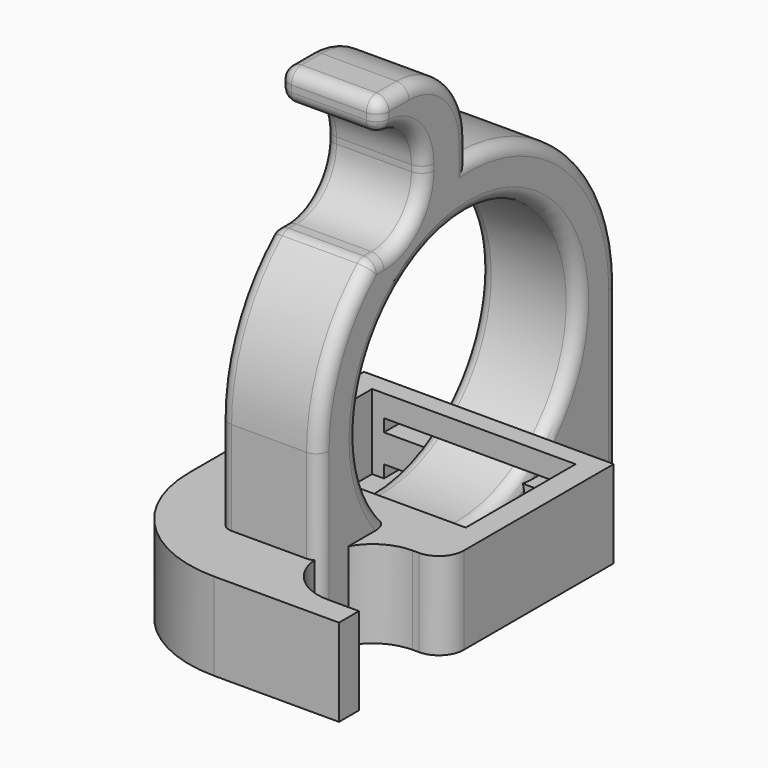
from build123d import *

# Parameters (mm, degrees)
BOX005_W          = 28.8
BOX005_H          = 22
BOX005_DEPTH      = 2
BOX006_W          = 28.8
BOX006_H          = 22
BOX006_DEPTH      = 2
BOX004_W          = 32.6
BOX004_H          = 22
BOX004_DEPTH      = 12
BOX_W             = 20
BOX_H             = 17
BOX_DEPTH         = 20
FILLET_R          = 8
BOX007_W          = 40
BOX007_H          = 55
BOX007_DEPTH      = 14
FILLET001_R       = 20
FILLET002_R       = 4
CYLINDER004_R     = 30
CYLINDER004_DEPTH = 20
BOX014_W          = 20
BOX014_H          = 30
BOX014_DEPTH      = 50
CYLINDER002_R     = 22
CYLINDER002_DEPTH = 20
CYLINDER001_R     = 1.2
CYLINDER001_DEPTH = 15
CYLINDER_R        = 1.2
CYLINDER_DEPTH    = 15
BOX012_W          = 20
BOX012_H          = 12
BOX012_DEPTH      = 10
BOX011_W          = 20
BOX011_H          = 21
BOX011_DEPTH      = 17
FILLET004_R       = 8
CYLINDER003_R     = 30
CYLINDER003_DEPTH = 20
BOX013_W          = 20
BOX013_H          = 20
BOX013_DEPTH      = 30
BOX010_W          = 16
BOX010_H          = 60
BOX010_DEPTH      = 72
FILLET005_R       = 12
FILLET006_R       = 2
FILLET007_R       = 2
FILLET008_R       = 2


with BuildPart() as cube005:
    # Box005 → Box005 (new body)
    with BuildSketch(Plane(origin=(-14.4, 0, 0), x_dir=(1, 0, 0), z_dir=(0, 0, 1))):
        with Locations((14.4, 11)):
            Rectangle(BOX005_W, BOX005_H)
    extrude(amount=BOX005_DEPTH)


with BuildPart() as cube006:
    # Box006 → Box006 (new body)
    with BuildSketch(Plane(origin=(-14.4, 0, 6.5), x_dir=(1, 0, 0), z_dir=(0, 0, 1))):
        with Locations((14.4, 11)):
            Rectangle(BOX006_W, BOX006_H)
    extrude(amount=BOX006_DEPTH)


with BuildPart() as hollows:
    # Box004 → Box004 (new body)
    with BuildSketch(Plane(origin=(-16.3, -11, 0), x_dir=(1, 0, 0), z_dir=(0, 0, 1))):
        with Locations((16.3, 11)):
            Rectangle(BOX004_W, BOX004_H)
    extrude(amount=BOX004_DEPTH)

    # Fusion: union Cube005, Cube006
    add(cube005.part)
    add(cube006.part)


with BuildPart() as fusion001:
    # Box → Box (new body)
    with BuildSketch(Plane(origin=(7, -37, -3), x_dir=(1, 0, 0), z_dir=(0, 0, 1))):
        with Locations((10, 8.5)):
            Rectangle(BOX_W, BOX_H)
    extrude(amount=BOX_DEPTH)

    # Fillet
    fillet_edges = [fusion001.edges().sort_by_distance(p)[0] for p in [
        (7, -37, 7),
        (7, -20, 7),
    ]]
    fillet(fillet_edges, radius=FILLET_R)

    # Fusion001: union Hollows
    add(hollows.part)


with BuildPart() as obj1:
    # Box007 → Box007 (new body)
    with BuildSketch(Plane(origin=(-20, -41, -2), x_dir=(1, 0, 0), z_dir=(0, 0, 1))):
        with Locations((20, 27.5)):
            Rectangle(BOX007_W, BOX007_H)
    extrude(amount=BOX007_DEPTH)

    # Fillet001
    fillet001_edges = [obj1.edges().sort_by_distance(p)[0] for p in [
        (-20, -41, 5),
    ]]
    fillet(fillet001_edges, radius=FILLET001_R)

    # Cut: cut Fusion001
    add(fusion001.part, mode=Mode.SUBTRACT)

    # Fillet002
    fillet002_edges = [obj1.edges().sort_by_distance(p)[0] for p in [
        (20, -20, 5),
    ]]
    fillet(fillet002_edges, radius=FILLET002_R)


with BuildPart() as cylinder004:
    # Cylinder004 → Cylinder004 (new body)
    with BuildSketch(Plane(origin=(-10, 0, 27), x_dir=(0, 0, -1), z_dir=(1, 0, 0))):
        Circle(CYLINDER004_R)
    extrude(amount=CYLINDER004_DEPTH)


with BuildPart() as cut002:
    # Box014 → Box014 (new body)
    with BuildSketch(Plane(origin=(-10, 0, 27), x_dir=(1, 0, 0), z_dir=(0, 0, 1))):
        with Locations((10, 15)):
            Rectangle(BOX014_W, BOX014_H)
    extrude(amount=BOX014_DEPTH)

    # Cut002: cut Cylinder004
    add(cylinder004.part, mode=Mode.SUBTRACT)


with BuildPart() as cylinder:
    # Cylinder002 → Cylinder002 (new body)
    with BuildSketch(Plane(origin=(-10, 0, 27), x_dir=(0, 0, -1), z_dir=(1, 0, 0))):
        Circle(CYLINDER002_R)
    extrude(amount=CYLINDER002_DEPTH)


with BuildPart() as screw002:
    # Cylinder001 → Cylinder001 (new body)
    with BuildSketch(Plane(origin=(0, -20.4, 0), x_dir=(1, 0, 0), z_dir=(0, 0, 1))):
        Circle(CYLINDER001_R)
    extrude(amount=CYLINDER001_DEPTH)


with BuildPart() as screw001:
    # Cylinder → Cylinder (new body)
    with BuildSketch(Plane(origin=(0, 20.4, 0), x_dir=(1, 0, 0), z_dir=(0, 0, 1))):
        Circle(CYLINDER_R)
    extrude(amount=CYLINDER_DEPTH)


with BuildPart() as cube009:
    # Box012 → Box012 (new body)
    with BuildSketch(Plane(origin=(-10, -30, 63), x_dir=(1, 0, 0), z_dir=(0, 0, 1))):
        with Locations((10, 6)):
            Rectangle(BOX012_W, BOX012_H)
    extrude(amount=BOX012_DEPTH)


with BuildPart() as fillet004:
    # Box011 → Box011 (new body)
    with BuildSketch(Plane(origin=(-10, -30, 50), x_dir=(1, 0, 0), z_dir=(0, 0, 1))):
        with Locations((10, 10.5)):
            Rectangle(BOX011_W, BOX011_H)
    extrude(amount=BOX011_DEPTH)

    # Fillet004
    fillet004_edges = [fillet004.edges().sort_by_distance(p)[0] for p in [
        (0, -9, 50),
        (0, -9, 67),
    ]]
    fillet(fillet004_edges, radius=FILLET004_R)


with BuildPart() as cylinder003:
    # Cylinder003 → Cylinder003 (new body)
    with BuildSketch(Plane(origin=(-10, 0, 27), x_dir=(0, 0, -1), z_dir=(1, 0, 0))):
        Circle(CYLINDER003_R)
    extrude(amount=CYLINDER003_DEPTH)


with BuildPart() as hollows001:
    # Box013 → Box013 (new body)
    with BuildSketch(Plane(origin=(-10, -35, 27), x_dir=(1, 0, 0), z_dir=(0, 0, 1))):
        with Locations((10, 10)):
            Rectangle(BOX013_W, BOX013_H)
    extrude(amount=BOX013_DEPTH)

    # Cut001: cut Cylinder003
    add(cylinder003.part, mode=Mode.SUBTRACT)

    # Fusion002: union Cut002, Cylinder, Screw002, Screw001, Cube009, Fillet004
    add(cut002.part)
    add(cylinder.part)
    add(screw002.part)
    add(screw001.part)
    add(cube009.part)
    add(fillet004.part)


with BuildPart() as obj2:
    # Box010 → Box010 (new body)
    with BuildSketch(Plane(origin=(-8, -30, 0), x_dir=(1, 0, 0), z_dir=(0, 0, 1))):
        with Locations((8, 30)):
            Rectangle(BOX010_W, BOX010_H)
    extrude(amount=BOX010_DEPTH)

    # Cut003: cut Hollows001
    add(hollows001.part, mode=Mode.SUBTRACT)

    # Fillet005
    fillet005_edges = [obj2.edges().sort_by_distance(p)[0] for p in [
        (0, 0, 72),
    ]]
    fillet(fillet005_edges, radius=FILLET005_R)

    # Fillet006
    fillet006_edges = [obj2.edges().sort_by_distance(p)[0] for p in [
        (0, -18, 72),
        (0, -18, 67),
        (0, -19.26136, 50),
    ]]
    fillet(fillet006_edges, radius=FILLET006_R)

    # Fillet007
    fillet007_edges = [obj2.edges().sort_by_distance(p)[0] for p in [
        (-8, -27.343135, 39.343135),
        (-8, 21.213203, 48.213203),
        (8, 21.213203, 48.213203),
        (8, -27.343135, 39.343135),
    ]]
    fillet(fillet007_edges, radius=FILLET007_R)

    # Fillet008
    fillet008_edges = [obj2.edges().sort_by_distance(p)[0] for p in [
        (-8, 0, 49),
        (8, 0, 49),
    ]]
    fillet(fillet008_edges, radius=FILLET008_R)


solid = Compound([obj1.part, obj2.part])
